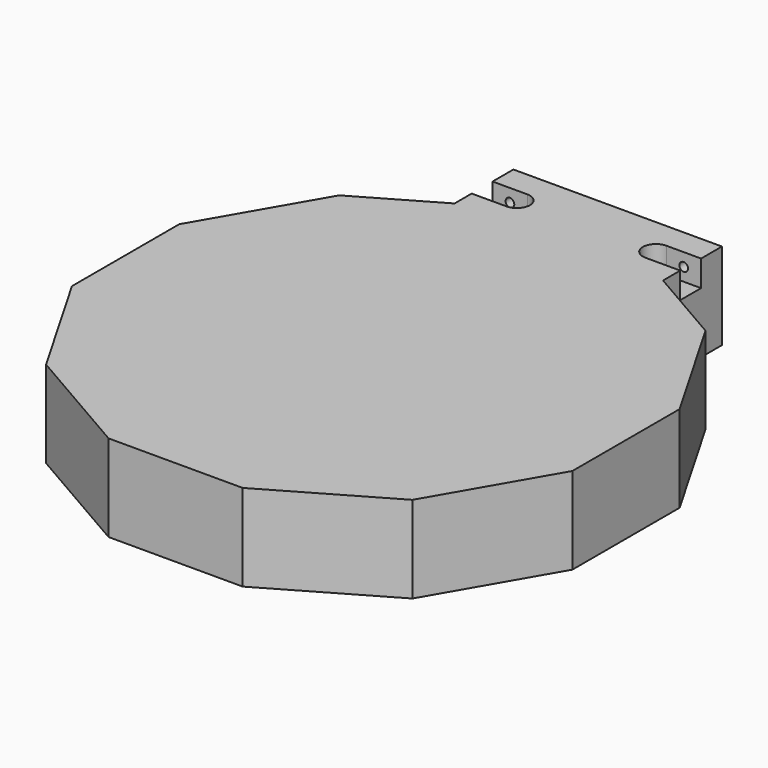
from build123d import *

# Parameters (mm, degrees)
F1_DEPTH = 50
F3_DEPTH = 15
F5_DEPTH = 15
F6_R     = 4
F7_DEPTH = 90
F6_R_2   = 2.5
F8_DEPTH = 15


with BuildPart() as f1:
    # F0 (on Top) → F1 (new body)
    with BuildSketch(Plane.XY):
        Polygon((144, 38.584684), (105.415316, 105.415316), (60, 131.635861), (60, 174), (-60, 174), (-60, 131.635861), (-105.415316, 105.415316), (-144, 38.584684), (-144, -38.584684), (-105.415316, -105.415316), (-38.584684, -144), (38.584684, -144), (105.415316, -105.415316), (144, -38.584684), align=None)
    extrude(amount=F1_DEPTH)

    # F2 (on face) → F3 (cut)
    with BuildSketch(Plane.XY.offset(50)):
        with BuildLine():
            Line((-40, 159), (-60, 159))
            Line((-60, 159), (-60, 144))
            Line((-60, 144), (-40, 144))
            ThreePointArc((-40, 144), (-32.5, 151.5), (-40, 159))
        make_face()
        with BuildLine():
            Line((60, 144), (60, 159))
            Line((60, 159), (40, 159))
            ThreePointArc((40, 159), (32.5, 151.5), (40, 144))
            Line((40, 144), (60, 144))
        make_face()
    extrude(amount=-F3_DEPTH, mode=Mode.SUBTRACT)

    # F4 (on face) → F5 (cut)
    with BuildSketch(Plane.XY):
        with BuildLine():
            Line((60, 144), (60, 159))
            Line((60, 159), (40, 159))
            ThreePointArc((40, 159), (32.5, 151.5), (40, 144))
            Line((40, 144), (60, 144))
        make_face()
        with BuildLine():
            Line((-40, 159), (-60, 159))
            Line((-60, 159), (-60, 144))
            Line((-60, 144), (-40, 144))
            ThreePointArc((-40, 144), (-32.5, 151.5), (-40, 159))
        make_face()
    extrude(amount=F5_DEPTH, mode=Mode.SUBTRACT)

    # F6 (on face) → F7 (cut)
    with BuildSketch(Plane(origin=(0, 174, 0), x_dir=(-1, 0, 0), z_dir=(0, 1, 0))):
        with Locations((-50, 25)):
            Circle(F6_R)
        with Locations((50, 25)):
            Circle(F6_R)
    extrude(amount=-F7_DEPTH, mode=Mode.SUBTRACT)

    # F6 (on face) → F8 (cut, through all)
    with BuildSketch(Plane(origin=(0, 174, 0), x_dir=(-1, 0, 0), z_dir=(0, 1, 0))):
        with Locations((-50, 42.5)):
            Circle(F6_R_2)
        with Locations((-50, 7.5)):
            Circle(F6_R_2)
        with Locations((50, 7.5)):
            Circle(F6_R_2)
        with Locations((50, 42.5)):
            Circle(F6_R_2)
    extrude(amount=-F8_DEPTH, mode=Mode.SUBTRACT)


solid = f1.part
